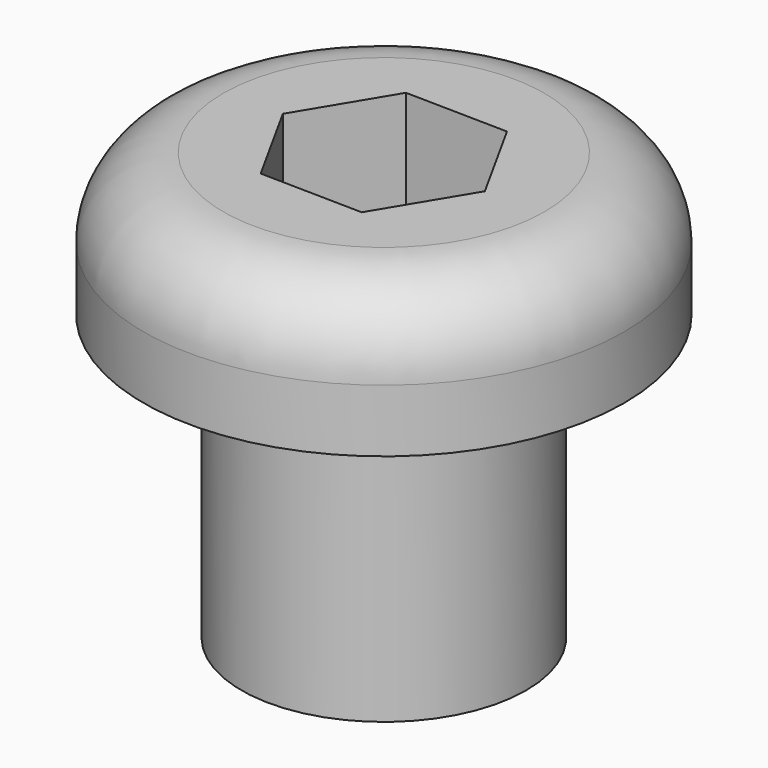
from build123d import *

# Parameters (mm, degrees)
F0_R     = 3.175
F1_DEPTH = 6.35
F2_R     = 5.3594
F3_DEPTH = 0.7874
F4_R     = 5.3594
F5_DEPTH = 2.3876
F6_R     = 1.778
F8_DEPTH = 2.8194


with BuildPart() as f1:
    # F0 (on Top) → F1 (new body)
    with BuildSketch(Plane.XY):
        Circle(F0_R)
    extrude(amount=F1_DEPTH)

    # F2 (on face) → F3 (join)
    with BuildSketch(Plane.XY.offset(6.35)):
        Circle(F2_R)
    extrude(amount=F3_DEPTH)

    # F4 (on face) → F5 (join)
    with BuildSketch(Plane.XY.offset(7.1374)):
        Circle(F4_R)
    extrude(amount=F5_DEPTH)

    # F6
    f6_edges = [f1.edges().sort_by_distance(p)[0] for p in [
        (-5.3594, 0, 9.525),
    ]]
    fillet(f6_edges, radius=F6_R)

    # F7 (on face) → F8 (cut)
    with BuildSketch(Plane.XY.offset(9.525)):
        Polygon((1.1065416167, -2.0003403837), (2.2856163968, -0.0418770414), (1.1790747801, 1.9584633423), (-1.1065416167, 2.0003403837), (-2.2856163968, 0.0418770414), (-1.1790747801, -1.9584633423), align=None)
    extrude(amount=-F8_DEPTH, mode=Mode.SUBTRACT)


solid = f1.part
